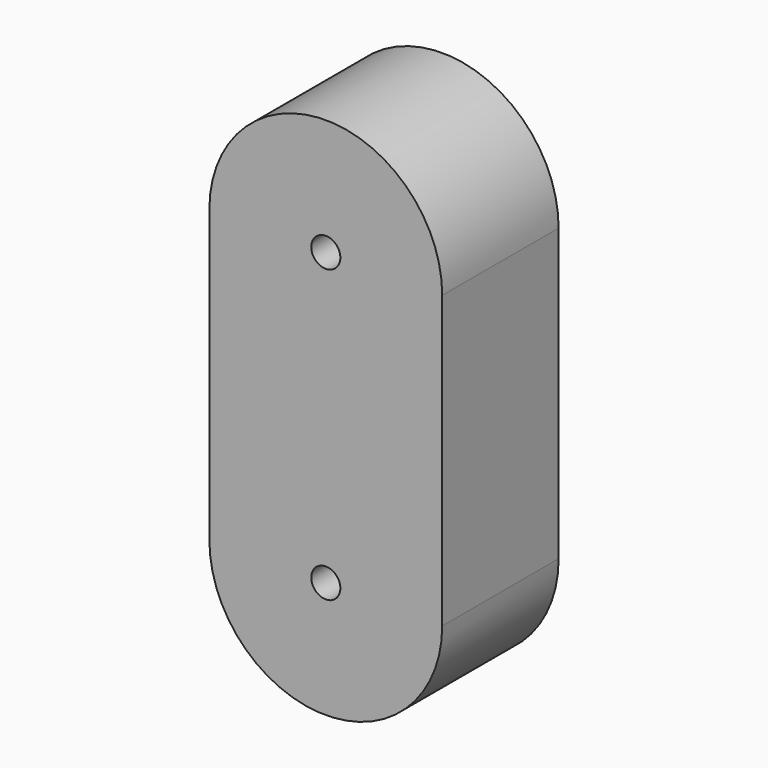
from build123d import *

# Parameters (mm, degrees)
F0_R     = 2.5
F1_DEPTH = 25


with BuildPart() as f1:
    # F0 (on Front) → F1 (new body)
    with BuildSketch(Plane.XZ):
        with BuildLine():
            Line((-20, 50), (-20, 0))
            ThreePointArc((-20, 0), (0, -20), (20, 0))
            Line((20, 0), (20, 50))
            Line((20, 50), (2.5, 50))
            ThreePointArc((2.5, 50), (0, 47.5), (-2.5, 50))
            Line((-2.5, 50), (-20, 50))
        make_face()
        Circle(F0_R, mode=Mode.SUBTRACT)
        with BuildLine():
            ThreePointArc((20, 50), (0, 70), (-20, 50))
            Line((-20, 50), (-2.5, 50))
            ThreePointArc((-2.5, 50), (0, 52.5), (2.5, 50))
            Line((2.5, 50), (20, 50))
        make_face()
    extrude(amount=F1_DEPTH)


solid = f1.part
